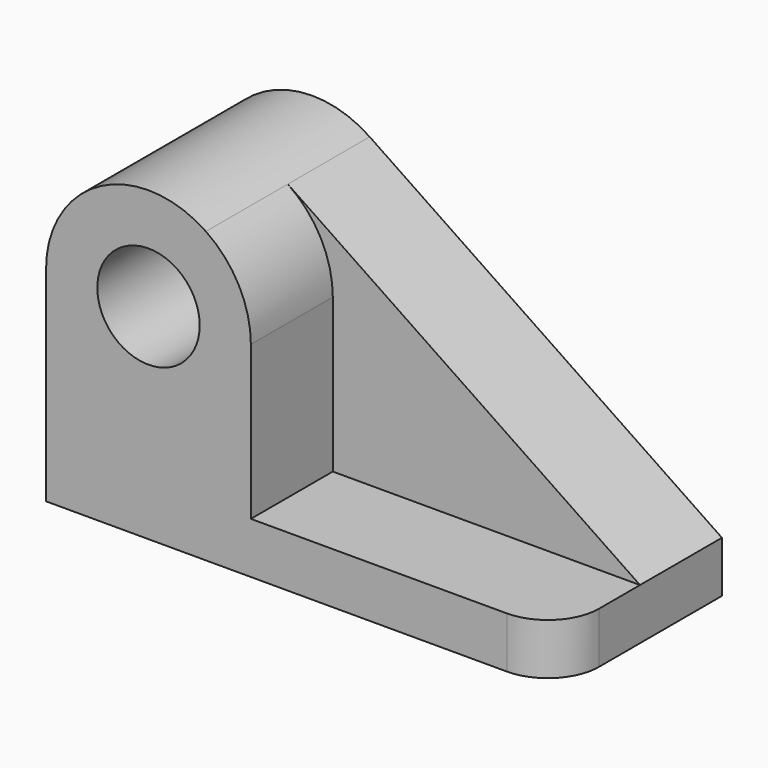
from build123d import *

# Parameters (mm, degrees)
F0_R     = 12.7
F1_DEPTH = 25.4
F2_R     = 12.7
F3_DEPTH = 25.4
F4_R     = 12.7


with BuildPart() as f1:
    # F0 (on Front) → F1 (new body)
    with BuildSketch(Plane.XZ):
        with BuildLine():
            Line((62.280798, 1.5748), (-25.081329, 60.709128))
            ThreePointArc((-25.081329, 60.709128), (-51.225462, 62.111399), (-64.719202, 39.6748))
            Line((-64.719202, 39.6748), (-64.719202, -11.1252))
            Line((-64.719202, -11.1252), (62.280798, -11.1252))
            Line((62.280798, -11.1252), (62.280798, 1.5748))
        make_face()
        with Locations((-39.319202, 39.6748)):
            Circle(F0_R, mode=Mode.SUBTRACT)
    extrude(amount=F1_DEPTH)

    # F2 (on face) → F3 (join)
    with BuildSketch(Plane.XZ.offset(25.4)):
        with BuildLine():
            Line((-13.919202, 1.5748), (-13.919202, 39.6748))
            ThreePointArc((-13.919202, 39.6748), (-16.882603, 51.581059), (-25.081329, 60.709128))
            ThreePointArc((-25.081329, 60.709128), (-51.225462, 62.111399), (-64.719202, 39.6748))
            Line((-64.719202, 39.6748), (-64.719202, 1.5748))
            Line((-64.719202, 1.5748), (-64.719202, -11.1252))
            Line((-64.719202, -11.1252), (62.280798, -11.1252))
            Line((62.280798, -11.1252), (62.280798, 1.5748))
            Line((62.280798, 1.5748), (-13.919202, 1.5748))
        make_face()
        with Locations((-39.319202, 39.6748)):
            Circle(F2_R, mode=Mode.SUBTRACT)
    extrude(amount=F3_DEPTH)

    # F4
    f4_edges = [f1.edges().sort_by_distance(p)[0] for p in [
        (62.280798, -50.8, -4.7752),
    ]]
    fillet(f4_edges, radius=F4_R)


solid = f1.part
